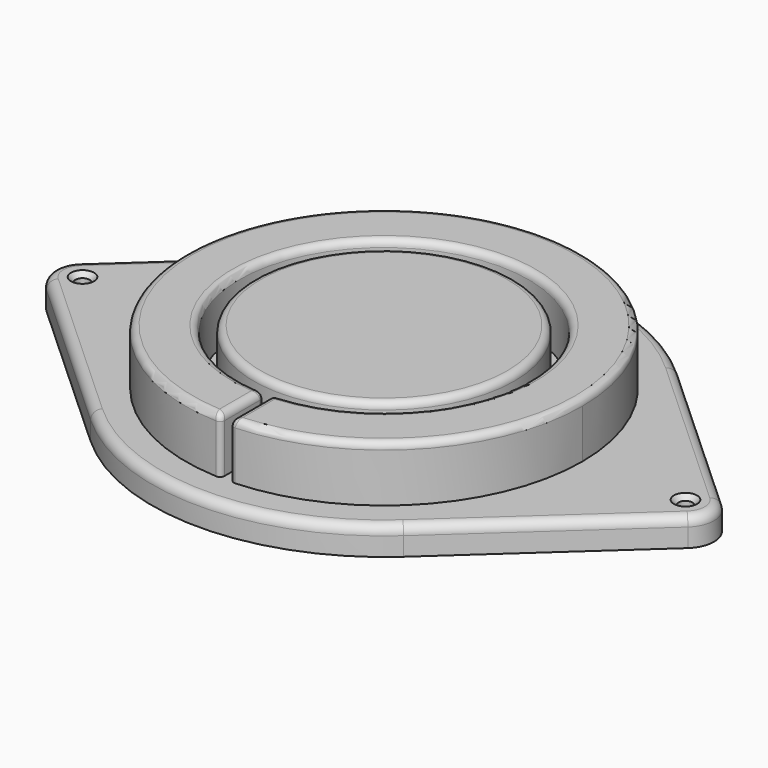
from build123d import *

# Parameters (mm, degrees)
SKETCH_R     = 1.5
PAD_DEPTH    = 6
SKETCH001_R  = 42.75
PAD001_DEPTH = 12
SKETCH002_R  = 28.1
POCKET_DEPTH = 12
CHAMFER_SIZE = 1
FILLET_R     = 2
FILLET001_R  = 1
FILLET002_R  = 1.5
FILLET003_R  = 1.5


with BuildPart() as part:
    # Sketch → Pad (new body)
    with BuildSketch(Plane.XY):
        with BuildLine():
            ThreePointArc((-33.738462, -36.901439), (0, -50), (33.738462, -36.901439))
            Line((69.143083, -4.531497), (33.738462, -36.901439))
            ThreePointArc((69.143083, -4.531497), (71.14, 0), (69.143083, 4.531497))
            Line((69.143083, 4.531497), (33.738462, 36.901439))
            ThreePointArc((33.738462, 36.901439), (0, 50), (-33.738462, 36.901439))
            Line((-69.143083, 4.531497), (-33.738462, 36.901439))
            ThreePointArc((-69.143083, 4.531497), (-71.14, 0), (-69.143083, -4.531497))
            Line((-69.143083, -4.531497), (-33.738462, -36.901439))
        make_face()
        with Locations((-65, 0)):
            Circle(SKETCH_R, mode=Mode.SUBTRACT)
        with Locations((65, 0)):
            Circle(SKETCH_R, mode=Mode.SUBTRACT)
    extrude(amount=PAD_DEPTH)

    # Sketch001 (on Face12 of Pad) → Pad001 (join)
    with BuildSketch(Plane.XY.offset(6)):
        Circle(SKETCH001_R)
    extrude(amount=PAD001_DEPTH)

    # Sketch002 (on Face14 of Pad001) → Pocket (cut)
    with BuildSketch(Plane.XY.offset(18)):
        with BuildLine():
            ThreePointArc((1.937888, -31.139759), (0, 31.2), (-1.937888, -31.139759))
            ThreePointArc((-1, -32.137828), (-1.271264, -31.453033), (-1.937888, -31.139759))
            Line((-1, -32.137828), (-1, -43.137828))
            Line((-1, -43.137828), (1, -43.137828))
            Line((1, -43.137828), (1, -32.137828))
            ThreePointArc((1.937888, -31.139759), (1.271264, -31.453033), (1, -32.137828))
        make_face()
        Circle(SKETCH002_R, mode=Mode.SUBTRACT)
    extrude(amount=-POCKET_DEPTH, mode=Mode.SUBTRACT)

    # Chamfer
    chamfer_edges = [part.edges().sort_by_distance(p)[0] for p in [
        (-66.5, 0, 6),
        (63.5, 0, 6),
    ]]
    chamfer(chamfer_edges, length=CHAMFER_SIZE)

    # Fillet
    fillet_edges = [part.edges().sort_by_distance(p)[0] for p in [
        (51.440772, 20.716468, 6),
        (71.14, 0, 6),
        (51.440772, -20.716468, 6),
        (0, 50, 6),
        (-51.440772, 20.716468, 6),
        (-71.14, 0, 6),
        (-51.440772, -20.716468, 6),
        (0, -50, 6),
    ]]
    fillet(fillet_edges, radius=FILLET_R)

    # Fillet001
    fillet001_edges = [part.edges().sort_by_distance(p)[0] for p in [
        (1, -42.738302, 12),
        (-1, -42.738302, 12),
    ]]
    fillet(fillet001_edges, radius=FILLET001_R)

    # Fillet002
    fillet002_edges = [part.edges().sort_by_distance(p)[0] for p in [
        (30.944389, -29.495886, 18),
        (-29.495886, 30.944389, 18),
    ]]
    fillet(fillet002_edges, radius=FILLET002_R)

    # Fillet003
    fillet003_edges = [part.edges().sort_by_distance(p)[0] for p in [
        (-28.1, 0, 18),
    ]]
    fillet(fillet003_edges, radius=FILLET003_R)


solid = part.part
